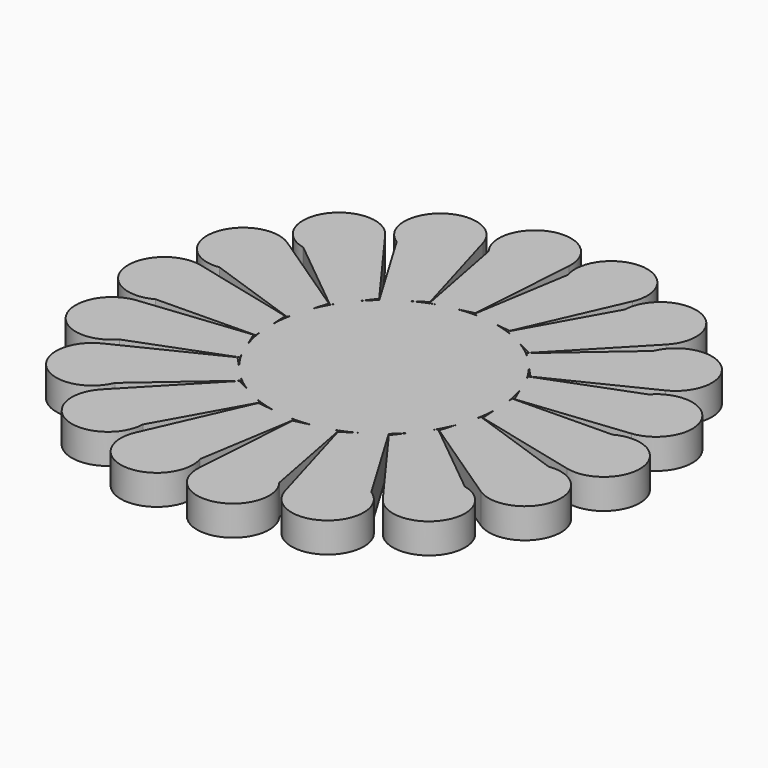
from build123d import *

# Parameters (mm, degrees)
F0_R     = 19.130966
F2_DEPTH = 5.08
F3_DEPTH = 5.08


with BuildPart() as f2:
    # F0 (on Top) → F2 (new body)
    with BuildSketch(Plane.XY):
        Circle(F0_R)
    extrude(amount=F2_DEPTH)

    # F1 (on Top) → F3 (join)
    with BuildSketch(Plane.XY):
        with BuildLine():
            Line((-21.044278, 28.989919), (-12.472797, 14.619729))
            Line((-12.472797, 14.619729), (-6.8548, 18.305056))
            Line((-6.8548, 18.305056), (-11.942245, 35.860111))
            ThreePointArc((-11.942245, 35.860111), (-21.48052, 39.032428), (-21.044278, 28.989919))
        make_face()
        with BuildLine():
            Line((-9.860016, 34.43918), (-6.720354, 18.003999))
            Line((-6.720354, 18.003999), (-0.180707, 19.545606))
            Line((-0.180707, 19.545606), (1.042841, 37.78197))
            ThreePointArc((1.042841, 37.78197), (-6.83521, 44.025255), (-9.860016, 34.43918))
        make_face()
        with BuildLine():
            Line((2.513509, 35.734568), (-0.157337, 19.216722))
            Line((-0.157337, 19.216722), (6.515182, 18.428667))
            Line((6.515182, 18.428667), (13.902145, 35.146766))
            ThreePointArc((13.902145, 35.146766), (8.634528, 43.707987), (2.513509, 35.734568))
        make_face()
        with BuildLine():
            Line((14.583868, 32.719839), (6.424658, 18.111624))
            Line((6.424658, 18.111624), (12.425244, 15.088959))
            Line((12.425244, 15.088959), (25.084645, 28.272343))
            ThreePointArc((25.084645, 28.272343), (23.062814, 38.11889), (14.583868, 32.719839))
        make_face()
        with BuildLine():
            Line((12.231744, 14.821997), (16.836638, 9.929299))
            Line((16.836638, 9.929299), (33.241566, 17.987859))
            ThreePointArc((33.241566, 17.987859), (34.709385, 27.932093), (24.895197, 25.758615))
            Line((24.895197, 25.758615), (12.231744, 14.821997))
        make_face()
        with BuildLine():
            Line((32.203798, 15.690521), (16.563501, 9.744618))
            Line((16.563501, 9.744618), (19.217285, 3.57202))
            Line((19.217285, 3.57202), (37.389064, 5.533773))
            ThreePointArc((37.389064, 5.533773), (42.169491, 14.376273), (32.203798, 15.690521))
        make_face()
        with BuildLine():
            Line((35.628146, 3.72992), (18.897455, 3.491895))
            Line((18.897455, 3.491895), (19.280043, -3.216097))
            Line((19.280043, -3.216097), (37.02689, -7.587768))
            ThreePointArc((37.02689, -7.587768), (44.543335, -0.913538), (35.628146, 3.72992))
        make_face()
        with BuildLine():
            Line((34.755213, -8.680565), (18.952098, -3.182002))
            Line((18.952098, -3.182002), (17.017344, -9.616306))
            Line((17.017344, -9.616306), (32.198726, -19.794112))
            ThreePointArc((32.198726, -19.794112), (41.544595, -16.093162), (34.755213, -8.680565))
        make_face()
        with BuildLine():
            Line((29.690289, -20.044046), (16.720838, -9.472103))
            Line((16.720838, -9.472103), (12.702102, -14.856647))
            Line((12.702102, -14.856647), (23.48692, -29.612993))
            ThreePointArc((23.48692, -29.612993), (33.534963, -29.331714), (29.690289, -20.044046))
        make_face()
        with BuildLine():
            Line((21.044278, -28.989919), (12.472797, -14.619729))
            Line((12.472797, -14.619729), (6.8548, -18.305056))
            Line((6.8548, -18.305056), (11.942245, -35.860111))
            ThreePointArc((11.942245, -35.860111), (21.48052, -39.032428), (21.044278, -28.989919))
        make_face()
        with BuildLine():
            Line((9.860016, -34.43918), (6.720354, -18.003999))
            Line((6.720354, -18.003999), (0.180707, -19.545606))
            Line((0.180707, -19.545606), (-1.042841, -37.78197))
            ThreePointArc((-1.042841, -37.78197), (6.83521, -44.025255), (9.860016, -34.43918))
        make_face()
        with BuildLine():
            Line((-2.513509, -35.734568), (0.157337, -19.216722))
            Line((0.157337, -19.216722), (-6.515182, -18.428667))
            Line((-6.515182, -18.428667), (-13.902145, -35.146766))
            ThreePointArc((-13.902145, -35.146766), (-8.634528, -43.707987), (-2.513509, -35.734568))
        make_face()
        with BuildLine():
            Line((-14.583868, -32.719839), (-6.424658, -18.111624))
            Line((-6.424658, -18.111624), (-12.425244, -15.088959))
            Line((-12.425244, -15.088959), (-25.084645, -28.272343))
            ThreePointArc((-25.084645, -28.272343), (-23.062814, -38.11889), (-14.583868, -32.719839))
        make_face()
        with BuildLine():
            Line((-24.895197, -25.758615), (-12.231744, -14.821997))
            Line((-12.231744, -14.821997), (-16.836638, -9.929299))
            Line((-16.836638, -9.929299), (-33.241566, -17.987859))
            ThreePointArc((-33.241566, -17.987859), (-34.709385, -27.932093), (-24.895197, -25.758615))
        make_face()
        with BuildLine():
            Line((-34.755213, 8.680565), (-18.952098, 3.182002))
            Line((-18.952098, 3.182002), (-17.017344, 9.616306))
            Line((-17.017344, 9.616306), (-32.198726, 19.794112))
            ThreePointArc((-32.198726, 19.794112), (-41.544595, 16.093162), (-34.755213, 8.680565))
        make_face()
        with BuildLine():
            Line((-29.690289, 20.044046), (-16.720838, 9.472103))
            Line((-16.720838, 9.472103), (-12.702102, 14.856647))
            Line((-12.702102, 14.856647), (-23.48692, 29.612993))
            ThreePointArc((-23.48692, 29.612993), (-33.534963, 29.331714), (-29.690289, 20.044046))
        make_face()
        with BuildLine():
            Line((-35.628146, -3.72992), (-18.897455, -3.491895))
            Line((-18.897455, -3.491895), (-19.280043, 3.216097))
            Line((-19.280043, 3.216097), (-37.02689, 7.587768))
            ThreePointArc((-37.02689, 7.587768), (-44.543335, 0.913538), (-35.628146, -3.72992))
        make_face()
        with BuildLine():
            Line((-32.203798, -15.690521), (-16.563501, -9.744618))
            Line((-16.563501, -9.744618), (-19.217285, -3.57202))
            Line((-19.217285, -3.57202), (-37.389064, -5.533773))
            ThreePointArc((-37.389064, -5.533773), (-42.169491, -14.376273), (-32.203798, -15.690521))
        make_face()
    extrude(amount=F3_DEPTH)


solid = f2.part
